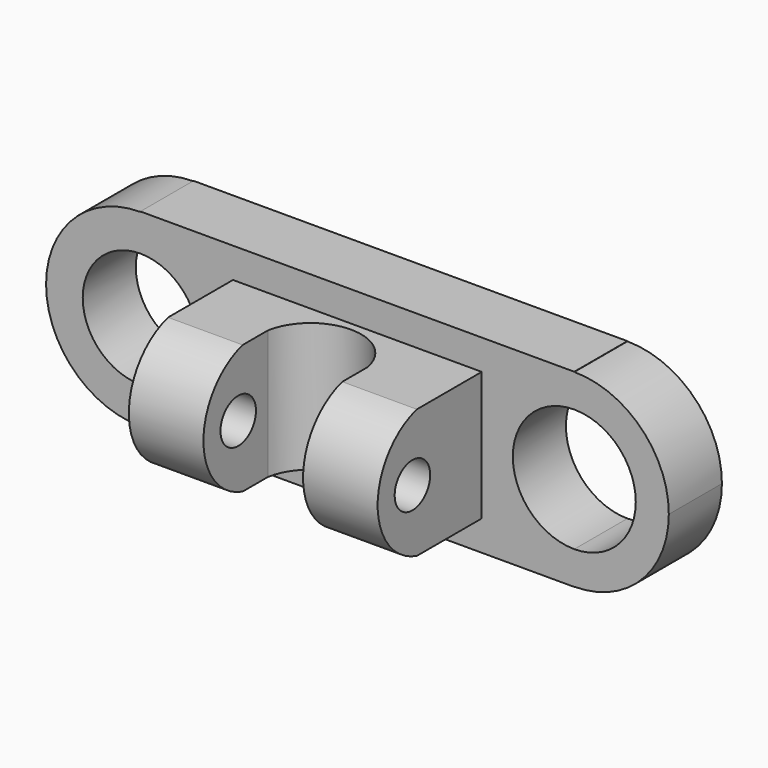
from build123d import *

# Parameters (mm, degrees)
F1_DEPTH = 19.05
F2_W     = 71.4131370187
F2_H     = 37.0434857905
F3_DEPTH = 38.1
F5_DEPTH = 125.0588758598
F6_W     = 28.5964906216
F6_H     = 18.30278337
F6_H_2   = 9.0631097555
F7_DEPTH = 45.7155236433
F8_R     = 6.3682145367
F9_DEPTH = 125.1160786257


with BuildPart() as f1:
    # F0 (on Front) → F1 (new body)
    with BuildSketch(Plane.XZ):
        with BuildLine():
            Line((62.2737929225, 27.192780748), (-62.2737929225, 27.192780748))
            Line((-62.2737929225, 27.192780748), (-62.2737929225, 27.077514428))
            ThreePointArc((-62.2737929225, 27.077514428), (-43.1270988528, 19.1466940697), (-35.1962784945, 0))
            ThreePointArc((-35.1962784945, 0), (-43.1270988528, -19.1466940697), (-62.2737929225, -27.077514428))
            Line((-62.2737929225, -27.077514428), (-62.2737929225, -27.192780748))
            Line((-62.2737929225, -27.192780748), (62.2737929225, -27.192780748))
            Line((62.2737929225, -27.192780748), (62.2737929225, -27.1347171939))
            ThreePointArc((62.2737929225, -27.1347171939), (35.1390757286, 0), (62.2737929225, 27.1347171939))
            Line((62.2737929225, 27.1347171939), (62.2737929225, 27.192780748))
        make_face()
        with BuildLine():
            ThreePointArc((-35.1962784945, 0), (-43.1270988528, 19.1466940697), (-62.2737929225, 27.077514428))
            Line((-62.2737929225, 27.077514428), (-62.2737929225, 16.5543363838))
            ThreePointArc((-62.2737929225, 16.5543363838), (-50.5681094075, 11.705683515), (-45.7194565387, 0))
            ThreePointArc((-45.7194565387, 0), (-50.5681094075, -11.705683515), (-62.2737929225, -16.5543363838))
            Line((-62.2737929225, -16.5543363838), (-62.2737929225, -27.077514428))
            ThreePointArc((-62.2737929225, -27.077514428), (-43.1270988528, -19.1466940697), (-35.1962784945, 0))
        make_face()
        with BuildLine():
            Line((-62.2737929225, 16.5543363838), (-62.2737929225, 27.077514428))
            ThreePointArc((-62.2737929225, 27.077514428), (-89.3513073505, 0), (-62.2737929225, -27.077514428))
            Line((-62.2737929225, -27.077514428), (-62.2737929225, -16.5543363838))
            ThreePointArc((-62.2737929225, -16.5543363838), (-78.8281293062, 0), (-62.2737929225, 16.5543363838))
        make_face()
        with BuildLine():
            Line((62.2737929225, 17.6446747149), (62.2737929225, 27.1347171939))
            ThreePointArc((62.2737929225, 27.1347171939), (35.1390757286, 0), (62.2737929225, -27.1347171939))
            Line((62.2737929225, -27.1347171939), (62.2737929225, -17.6446747149))
            ThreePointArc((62.2737929225, -17.6446747149), (44.6291182076, 0), (62.2737929225, 17.6446747149))
        make_face()
        with BuildLine():
            ThreePointArc((89.4085101164, 0), (81.4609354559, 19.1871425334), (62.2737929225, 27.1347171939))
            Line((62.2737929225, 27.1347171939), (62.2737929225, 17.6446747149))
            ThreePointArc((62.2737929225, 17.6446747149), (74.7504620652, 12.4766691427), (79.9184676374, 0))
            ThreePointArc((79.9184676374, 0), (74.7504620652, -12.4766691427), (62.2737929225, -17.6446747149))
            Line((62.2737929225, -17.6446747149), (62.2737929225, -27.1347171939))
            ThreePointArc((62.2737929225, -27.1347171939), (81.4609354559, -19.1871425334), (89.4085101164, 0))
        make_face()
    extrude(amount=F1_DEPTH)

    # F2 (on face) → F3 (join)
    with BuildSketch(Plane.XZ.offset(19.05)):
        Rectangle(F2_W, F2_H)
    extrude(amount=F3_DEPTH)

    # F4 (on face) → F5 (cut, through all)
    with BuildSketch(Plane.YZ.offset(35.7065685093)):
        with BuildLine():
            ThreePointArc((-42.3361994326, -18.5217428952), (-56.4047103889, 0), (-42.3361994326, 18.5217428952))
            Line((-42.3361994326, 18.5217428952), (-57.15, 18.5217428952))
            Line((-57.15, 18.5217428952), (-57.15, -18.5217428952))
            Line((-57.15, -18.5217428952), (-42.3361994326, -18.5217428952))
        make_face()
    extrude(amount=-F5_DEPTH, mode=Mode.SUBTRACT)

    # F6 (on face) → F7 (cut, through all)
    with BuildSketch(Plane(origin=(0, 0, -18.5217428952), x_dir=(1, 0, 0), z_dir=(0, 0, -1))):
        with Locations((0, 51.4875911176)):
            Rectangle(F6_W, F6_H)
        with Locations((0, 37.8046445549)):
            Rectangle(F6_W, F6_H_2)
        with BuildLine():
            Line((14.2982453108, 33.2730896771), (-14.2982453108, 33.2730896771))
            ThreePointArc((-14.2982453108, 33.2730896771), (0, 21.3200343577), (14.2982453108, 33.2730896771))
        make_face()
    extrude(amount=-F7_DEPTH, mode=Mode.SUBTRACT)

    # F8 (on face) → F9 (cut, through all)
    with BuildSketch(Plane(origin=(-35.7065685093, 0, 0), x_dir=(0, -1, 0), z_dir=(-1, 0, 0))):
        with Locations((43.9249239862, 0)):
            Circle(F8_R)
    extrude(amount=-F9_DEPTH, mode=Mode.SUBTRACT)


solid = f1.part
